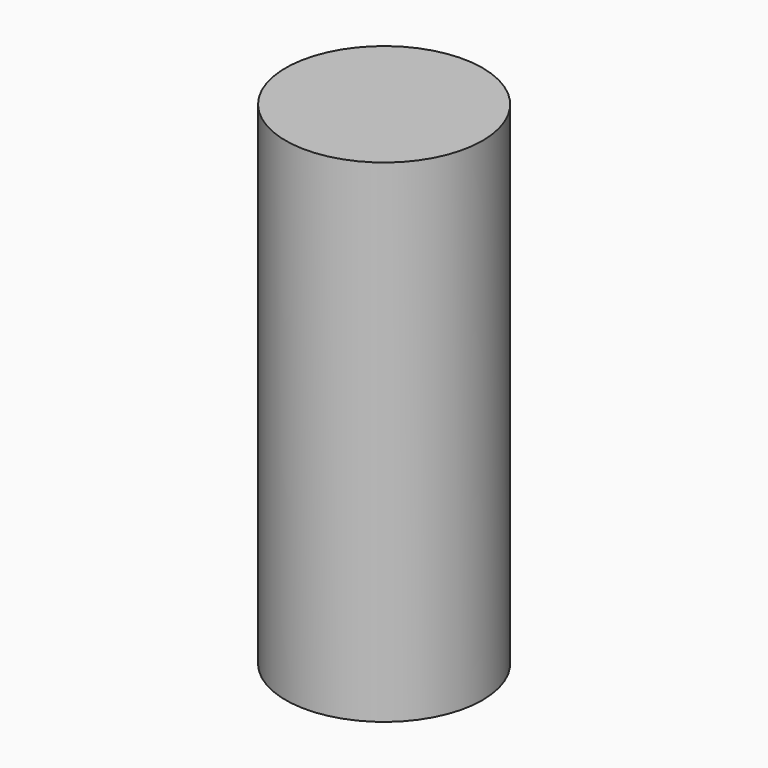
from build123d import *

# Parameters (mm, degrees)
CIRCLE_R  = 10
PAD_DEPTH = 50


with BuildPart() as part:
    # Circle → Pad (new body)
    with BuildSketch(Plane.XY):
        Circle(CIRCLE_R)
    extrude(amount=PAD_DEPTH)


solid = part.part
